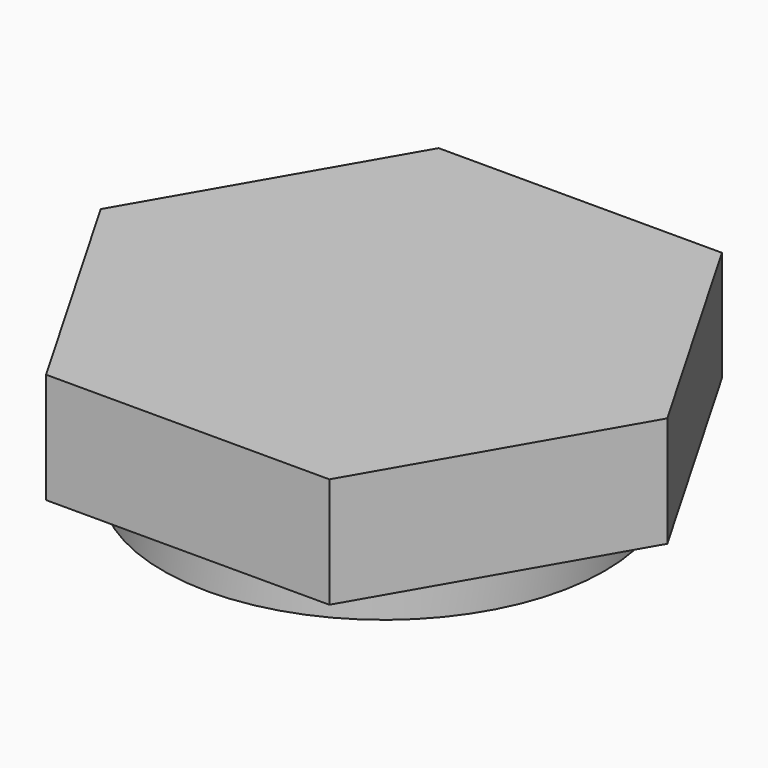
from build123d import *

# Parameters (mm, degrees)
F0_R     = 5
F1_DEPTH = 2.5
F2_DEPTH = 1


with BuildPart() as f1:
    # F0 (on Top) → F1 (new body)
    with BuildSketch(Plane.XY):
        Polygon((-6.414361, 0), (-3.207181, -5.555), (3.207181, -5.555), (6.414361, 0), (3.207181, 5.555), (-3.207181, 5.555), align=None)
        Circle(F0_R, mode=Mode.SUBTRACT)
        Circle(F0_R)
    extrude(amount=F1_DEPTH)

    # F0 (on Top) → F2 (join)
    with BuildSketch(Plane.XY):
        Circle(F0_R)
    extrude(amount=-F2_DEPTH)


solid = f1.part
